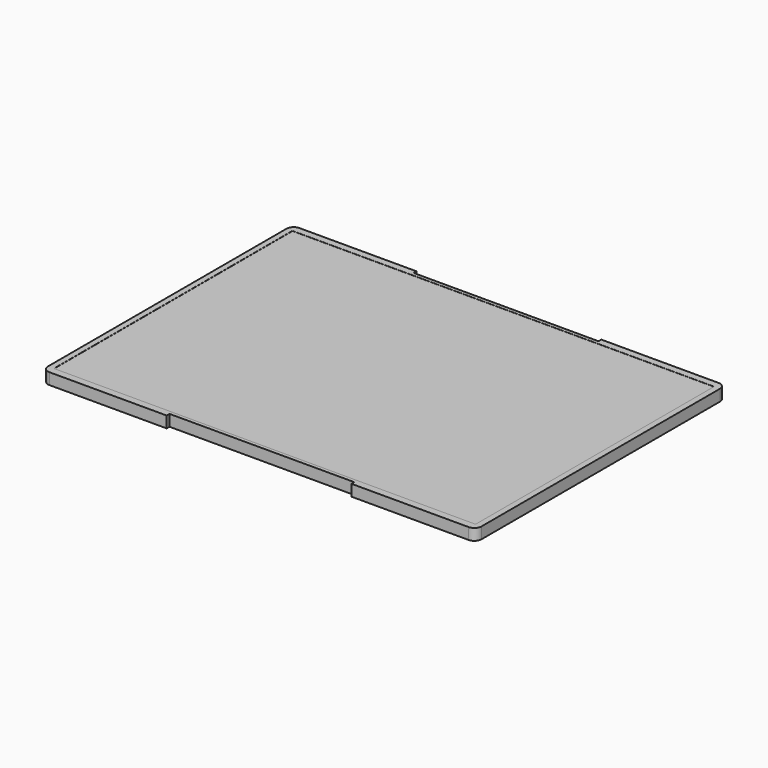
from build123d import *

# Parameters (mm, degrees)
SKETCH_W        = 305.3
SKETCH_H        = 220
PAD_DEPTH       = 8
FILLET_R        = 5
SKETCH001_W     = 130.2
SKETCH001_H     = 2.5
POCKET_DEPTH    = 8
SKETCH002_W     = 297
SKETCH002_H     = 210
POCKET001_DEPTH = 0.1


with BuildPart() as part:
    # Sketch → Pad (new body)
    with BuildSketch(Plane.XY):
        Rectangle(SKETCH_W, SKETCH_H)
    extrude(amount=PAD_DEPTH)

    # Fillet
    fillet_edges = [part.edges().sort_by_distance(p)[0] for p in [
        (-152.65, 110, 4),
        (-152.65, -110, 4),
        (152.65, -110, 4),
        (152.65, 110, 4),
    ]]
    fillet(fillet_edges, radius=FILLET_R)

    # Sketch001 → Pocket (cut)
    with BuildSketch(Plane.XY.offset(8)):
        with Locations((0, 108.75)):
            Rectangle(SKETCH001_W, SKETCH001_H)
        with Locations((0, -108.75)):
            Rectangle(SKETCH001_W, SKETCH001_H)
    extrude(amount=-POCKET_DEPTH, mode=Mode.SUBTRACT)

    # Sketch002 → Pocket001 (cut)
    with BuildSketch(Plane.XY.offset(8)):
        Rectangle(SKETCH002_W, SKETCH002_H)
    extrude(amount=-POCKET001_DEPTH, mode=Mode.SUBTRACT)


solid = part.part
